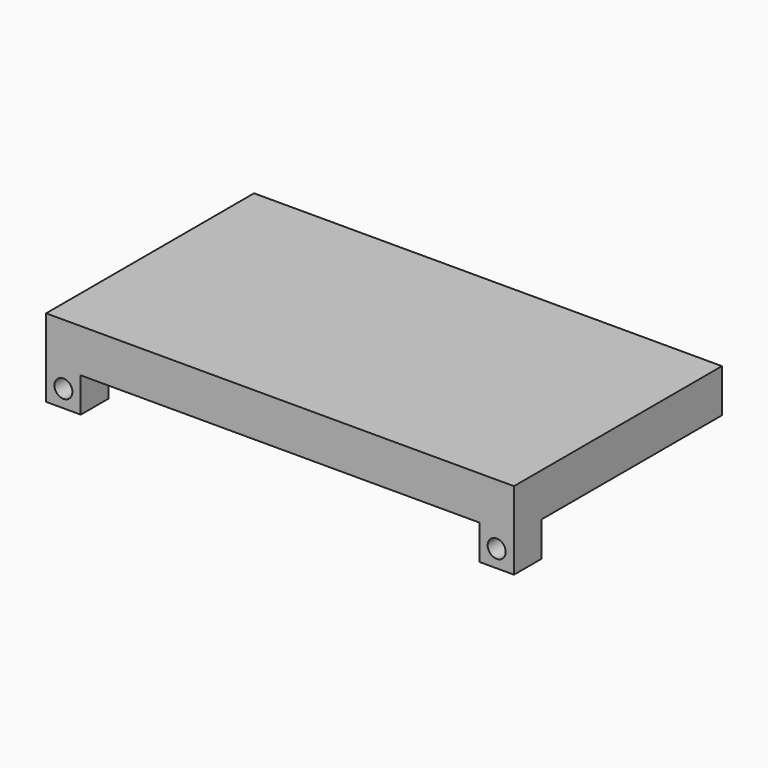
from build123d import *

# Parameters (mm, degrees)
F0_W     = 137.16
F0_H     = 12.7
F1_DEPTH = 76.2
F2_W     = 10.16
F2_H     = 10.16
F3_DEPTH = 10.16
F4_R     = 2.6416
F5_DEPTH = 25.4


with BuildPart() as f1:
    # F0 (on Front) → F1 (new body)
    with BuildSketch(Plane.XZ):
        with Locations((0.306241, 0)):
            Rectangle(F0_W, F0_H)
    extrude(amount=F1_DEPTH)

    # F2 (on face) → F3 (join)
    with BuildSketch(Plane.XZ.offset(76.2)):
        with Locations((-63.193759, -11.43)):
            Rectangle(F2_W, F2_H)
        with Locations((63.806241, -11.43)):
            Rectangle(F2_W, F2_H)
    extrude(amount=-F3_DEPTH)

    # F4 (on face) → F5 (cut)
    with BuildSketch(Plane.XZ.offset(76.2)):
        with Locations((-63.193759, -11.43)):
            Circle(F4_R)
        with Locations((63.806241, -11.43)):
            Circle(F4_R)
    extrude(amount=-F5_DEPTH, mode=Mode.SUBTRACT)


solid = f1.part
